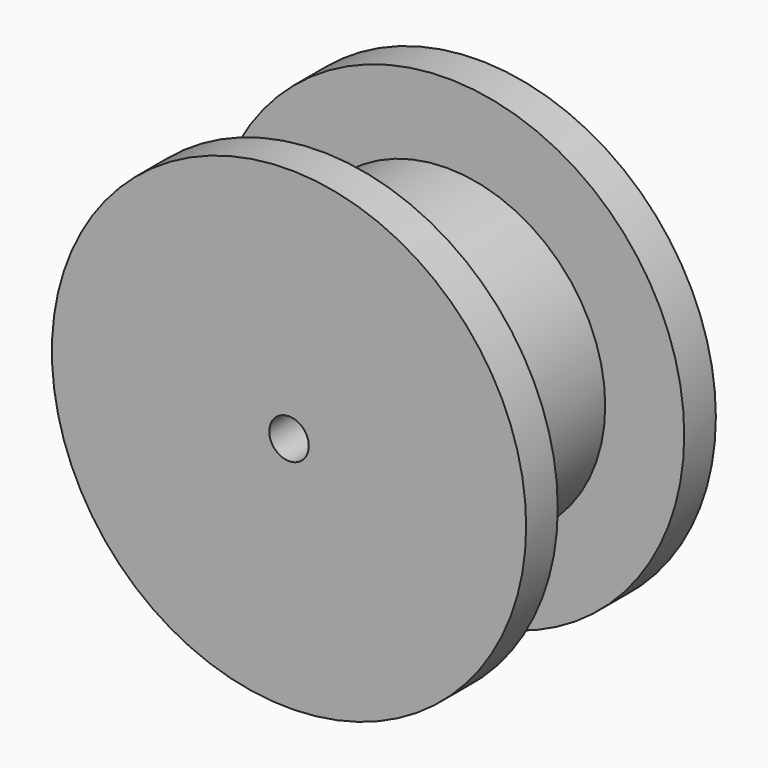
from build123d import *

# Parameters (mm, degrees)
F0_R     = 38.1
F1_DEPTH = 6.35
F2_R     = 25.4
F3_DEPTH = 25.4
F4_R     = 38.1
F4_R_2   = 25.4
F5_DEPTH = 6.35
F6_R     = 3.175
F7_DEPTH = 38.101


with BuildPart() as f1:
    # F0 (on Front) → F1 (new body)
    with BuildSketch(Plane.XZ):
        Circle(F0_R)
    extrude(amount=F1_DEPTH)

    # F2 (on face) → F3 (join)
    with BuildSketch(Plane.XZ.offset(6.35)):
        Circle(F2_R)
    extrude(amount=F3_DEPTH)

    # F4 (on face) → F5 (join)
    with BuildSketch(Plane.XZ.offset(31.75)):
        Circle(F4_R)
        Circle(F4_R_2, mode=Mode.SUBTRACT)
        Circle(F4_R_2)
    extrude(amount=F5_DEPTH)

    # F6 (on face) → F7 (cut, through all)
    with BuildSketch(Plane.XZ.offset(38.1)):
        Circle(F6_R)
    extrude(amount=-F7_DEPTH, mode=Mode.SUBTRACT)


solid = f1.part
